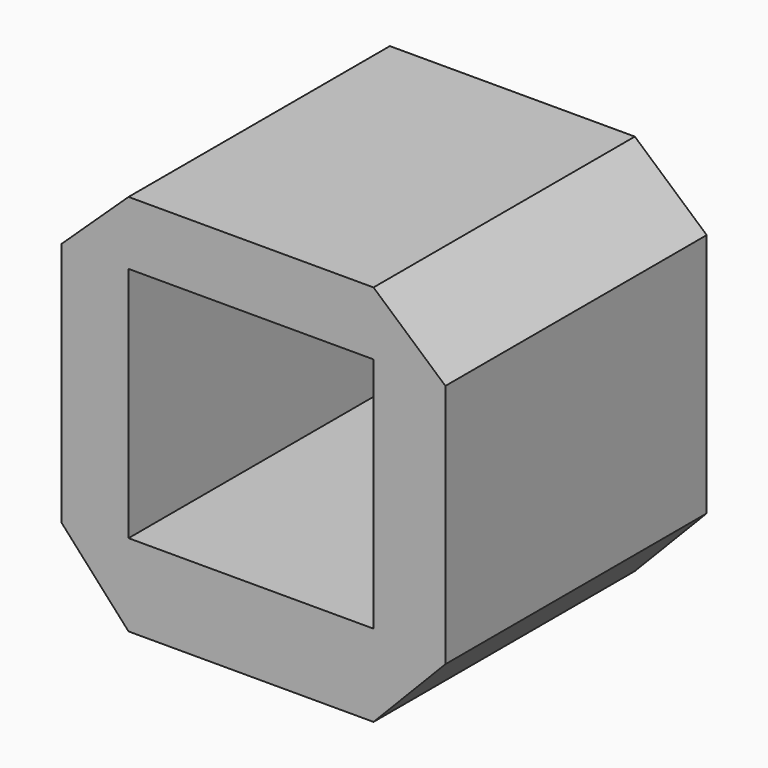
from build123d import *

# Parameters (mm, degrees)
F0_W          = 75
F0_H          = 72.5740331761
F1_DEPTH      = 50
F1_DEPTH_BACK = 50


with BuildPart() as f1:
    # F0 (on Front) → F1 (new body, two sides)
    with BuildSketch(Plane.XZ) as f1_sk:
        Polygon((-34.9110340909, 68.1764709135), (-55.4926691404, 48.7848244566), (-55.4926691404, -26.2151755434), (-34.9110340909, -48.9259438893), (40.0889659091, -48.9259438893), (62.090027551, -26.2151755434), (62.090027551, 48.7848244566), (40.0889659091, 68.1764709135), align=None)
        with Locations((2.5889659091, 12.4978078685)):
            Rectangle(F0_W, F0_H, mode=Mode.SUBTRACT)
    extrude(amount=-F1_DEPTH)
    extrude(f1_sk.sketch, amount=F1_DEPTH_BACK)


solid = f1.part
